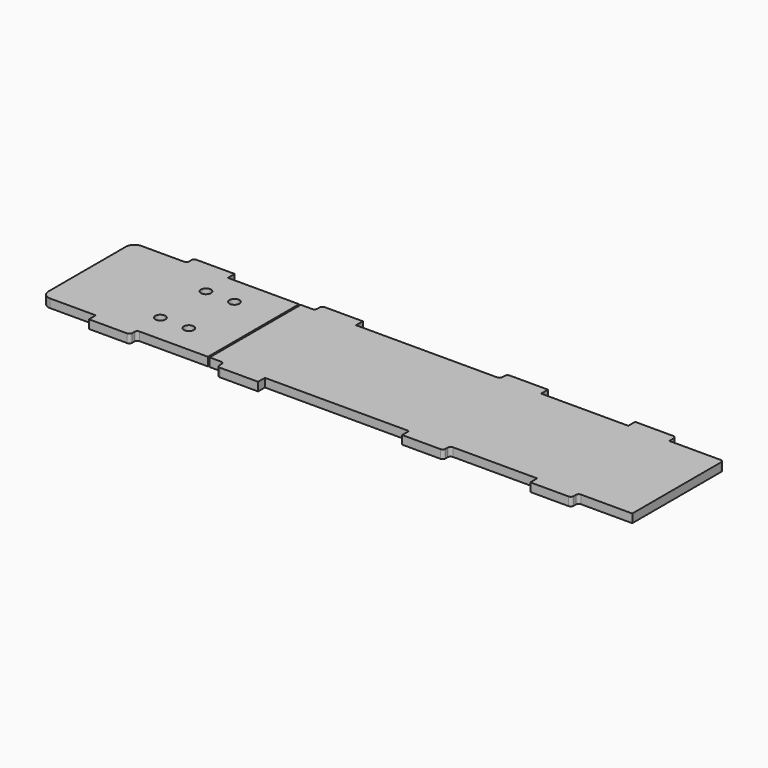
from build123d import *

# Parameters (mm, degrees)
SKETCH_R    = 1.75
PAD_DEPTH   = 3
FILLET_R    = 1
FILLET001_R = 3


with BuildPart() as part:
    # Sketch → Pad (new body)
    with BuildSketch(Plane.XY):
        Polygon((25.3, 24.474048), (39.7, 24.474048), (39.7, 21.474048), (70.3, 21.474048), (70.3, 24.474048), (84.7, 24.474048), (84.7, 21.474048), (103.7, 21.474048), (103.7, -18.525952), (84.7, -18.525952), (84.7, -21.525952), (70.3, -21.525952), (70.3, -18.525952), (39.7, -18.525952), (39.7, -21.525952), (25.3, -21.525952), (25.3, -18.525952), (-25.3, -18.525952), (-25.3, -21.525952), (-39.7, -21.525952), (-39.7, -18.525952), (-44.7, -18.525952), (-44.7, 21.474048), (-39.7, 21.474048), (-39.7, 24.474048), (-25.3, 24.474048), (-25.3, 21.474048), (25.3, 21.474048), align=None)
        Polygon((-103.7, 21.474047), (-103.7, -18.525953), (-84.7, -18.525953), (-84.7, -21.525953), (-70.3, -21.525953), (-70.3, -18.525953), (-45.3, -18.525953), (-45.3, 21.474048), (-70.3, 21.474048), (-70.3, 24.474048), (-84.7, 24.474048), (-84.7, 21.474047), align=None)
        with Locations((-70, 11.474047)):
            Circle(SKETCH_R, mode=Mode.SUBTRACT)
        with Locations((-70, -8.525953)):
            Circle(SKETCH_R, mode=Mode.SUBTRACT)
        with Locations((-60, -8.525953)):
            Circle(SKETCH_R, mode=Mode.SUBTRACT)
        with Locations((-60, 11.474047)):
            Circle(SKETCH_R, mode=Mode.SUBTRACT)
    extrude(amount=PAD_DEPTH)

    # Fillet
    fillet_edges = [part.edges().sort_by_distance(p)[0] for p in [
        (103.7, 21.474048, 1.5),
        (84.7, 24.474048, 1.5),
        (25.3, 24.474048, 1.5),
        (25.3, 21.474048, 1.5),
        (-39.7, 24.474048, 1.5),
        (-39.7, 21.474048, 1.5),
        (-39.7, -18.525952, 1.5),
        (-39.7, -21.525952, 1.5),
        (39.7, -21.525952, 1.5),
        (39.7, -18.525952, 1.5),
        (84.7, -21.525952, 1.5),
        (84.7, -18.525952, 1.5),
        (-70.3, -18.525953, 1.5),
        (-70.3, -21.525953, 1.5),
        (-84.7, 21.474047, 1.5),
        (-84.7, 24.474048, 1.5),
    ]]
    fillet(fillet_edges, radius=FILLET_R)

    # Fillet001
    fillet001_edges = [part.edges().sort_by_distance(p)[0] for p in [
        (-38.7, 24.474048, 1.5),
        (-39.7, 23.474048, 1.5),
        (-103.7, -18.525953, 1.5),
        (-103.7, 21.474047, 1.5),
    ]]
    fillet(fillet001_edges, radius=FILLET001_R)


solid = part.part
